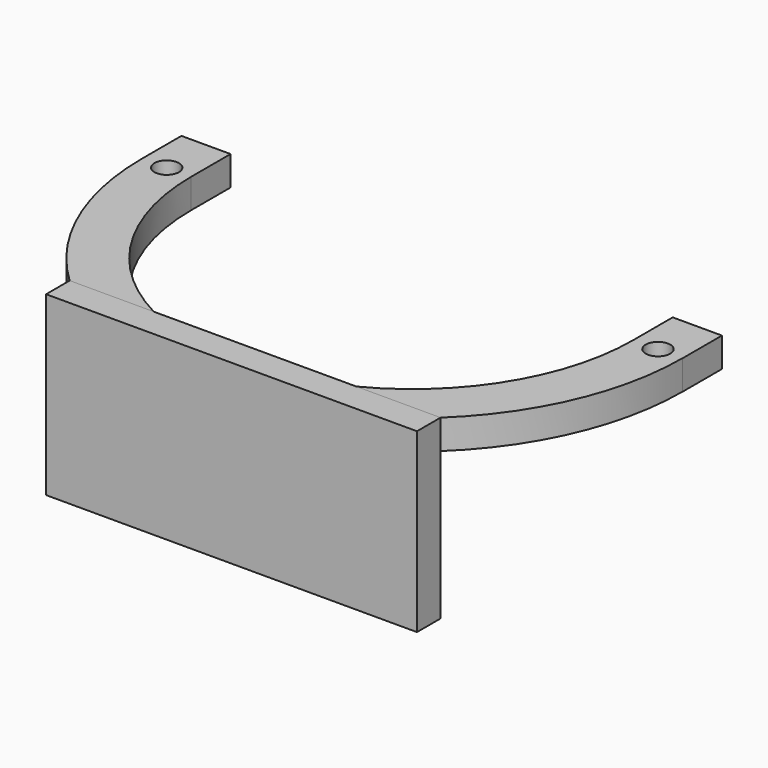
from build123d import *

# Parameters (mm, degrees)
F1_DEPTH      = 3
F2_DEPTH      = 15
F2_DEPTH_BACK = 3


with BuildPart() as f1:
    # F0 (on Top) → F1 (new body)
    with BuildSketch(Plane.XY):
        with BuildLine():
            Line((22.5, 5), (22.5, 0))
            Line((22.5, 0), (23.75, 0))
            ThreePointArc((23.75, 0), (25, 1.25), (26.25, 0))
            Line((26.25, 0), (27.5, 0))
            ThreePointArc((27.5, 0), (27.3851688927, 2.510482965), (27.041634566, 5))
            Line((27.041634566, 5), (22.5, 5))
        make_face()
        with BuildLine():
            Line((27.5094527751, 5), (27.041634566, 5))
            ThreePointArc((27.041634566, 5), (27.3851688927, 2.510482965), (27.5, 0))
            Line((27.5, 0), (27.5094527751, 0))
            Line((27.5094527751, 0), (27.5094527751, 5))
        make_face()
        with BuildLine():
            Line((23.75, 0), (22.5, 0))
            ThreePointArc((22.5, 0), (19.2116460961, -11.7116460961), (10.307764064, -20))
            Line((10.307764064, -20), (18.8745860882, -20))
            ThreePointArc((18.8745860882, -20), (25.2517436767, -10.8903370603), (27.5, 0))
            Line((27.5, 0), (26.25, 0))
            ThreePointArc((26.25, 0), (25, -1.25), (23.75, 0))
        make_face()
    extrude(amount=F1_DEPTH)


with BuildPart() as f1b:
    # F0 (on Top) → F1, piece 2 (new body)
    with BuildSketch(Plane.XY):
        with BuildLine():
            Line((-22.5, 0), (-23.75, 0))
            ThreePointArc((-23.75, 0), (-25, -1.25), (-26.25, 0))
            Line((-26.25, 0), (-27.5, 0))
            ThreePointArc((-27.5, 0), (-25.2517436767, -10.8903370603), (-18.8745860882, -20))
            Line((-18.8745860882, -20), (-10.307764064, -20))
            ThreePointArc((-10.307764064, -20), (-19.2116460961, -11.7116460961), (-22.5, 0))
        make_face()
        with BuildLine():
            ThreePointArc((-26.25, 0), (-25, 1.25), (-23.75, 0))
            Line((-23.75, 0), (-22.5, 0))
            Line((-22.5, 0), (-22.5, 5))
            Line((-22.5, 5), (-27.041634566, 5))
            ThreePointArc((-27.041634566, 5), (-27.3851688927, 2.510482965), (-27.5, 0))
            Line((-27.5, 0), (-26.25, 0))
        make_face()
        with BuildLine():
            Line((-27.5, 5), (-27.5, 0))
            ThreePointArc((-27.5, 0), (-27.3851688927, 2.510482965), (-27.041634566, 5))
            Line((-27.041634566, 5), (-27.5, 5))
        make_face()
    extrude(amount=F1_DEPTH)


with BuildPart() as f2:
    # F0 (on Top) → F2 (new body, two sides)
    with BuildSketch(Plane.XY) as f2_sk:
        with BuildLine():
            ThreePointArc((10.307764064, -20), (0, -22.5), (-10.307764064, -20))
            Line((-10.307764064, -20), (-18.8745860882, -20))
            ThreePointArc((-18.8745860882, -20), (-17.0408459866, -21.5837802078), (-15.0748134317, -23))
            Line((-15.0748134317, -23), (15.0748134317, -23))
            ThreePointArc((15.0748134317, -23), (17.0408459866, -21.5837802078), (18.8745860882, -20))
            Line((18.8745860882, -20), (10.307764064, -20))
        make_face()
        with BuildLine():
            ThreePointArc((-15.0748134317, -23), (-17.0408459866, -21.5837802078), (-18.8745860882, -20))
            Line((-18.8745860882, -20), (-18.8745860882, -23))
            Line((-18.8745860882, -23), (-15.0748134317, -23))
        make_face()
        with BuildLine():
            Line((18.8745860882, -23), (18.8745860882, -20))
            ThreePointArc((18.8745860882, -20), (17.0408459866, -21.5837802078), (15.0748134317, -23))
            Line((15.0748134317, -23), (18.8745860882, -23))
        make_face()
        with BuildLine():
            Line((0, -20), (-10.307764064, -20))
            ThreePointArc((-10.307764064, -20), (0, -22.5), (10.307764064, -20))
            Line((10.307764064, -20), (0, -20))
        make_face()
    extrude(amount=-F2_DEPTH)
    extrude(f2_sk.sketch, amount=F2_DEPTH_BACK)


solid = Compound([f1.part, f1b.part, f2.part])
